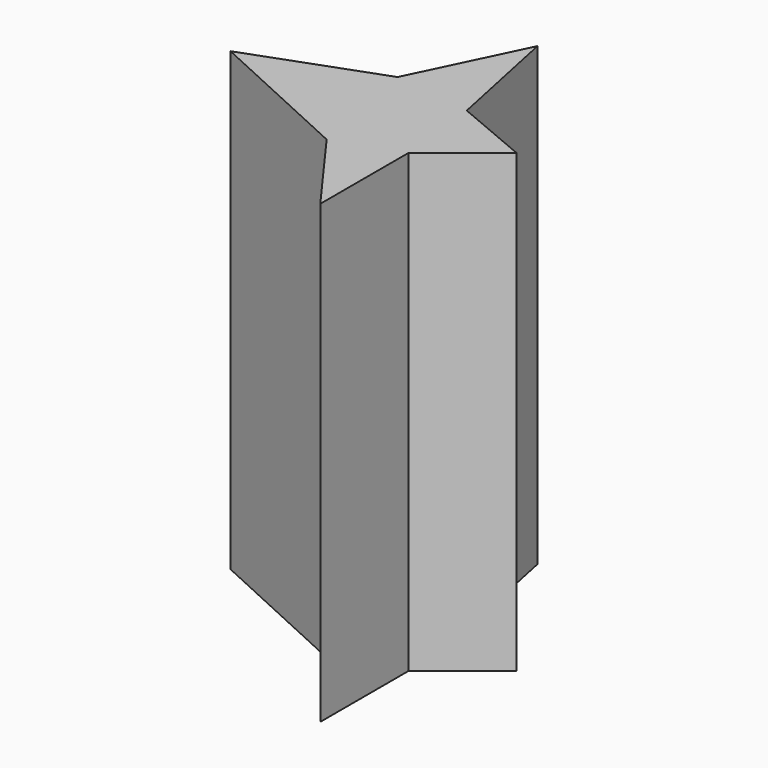
from build123d import *

# Parameters (mm, degrees)
F1_DEPTH = 170.942


with BuildPart() as f1:
    # F0 (on Top) → F1 (new body)
    with BuildSketch(Plane.XY):
        Polygon((-56.914963, 26.109094), (0, 0), (24.02932, -33.025414), (24.02932, 8.372621), (48.671011, 28.085977), (20.579485, 39.913986), (11.215642, 84.761858), (-8.49771, 43.856654), align=None)
        Polygon((-56.914963, 26.109094), (0, 0), (24.02932, -33.025414), (24.02932, 8.372621), (48.671011, 28.085977), (20.579485, 39.913986), (11.215642, 84.761858), (-8.49771, 43.856654), align=None)
    extrude(amount=-F1_DEPTH)


solid = f1.part
